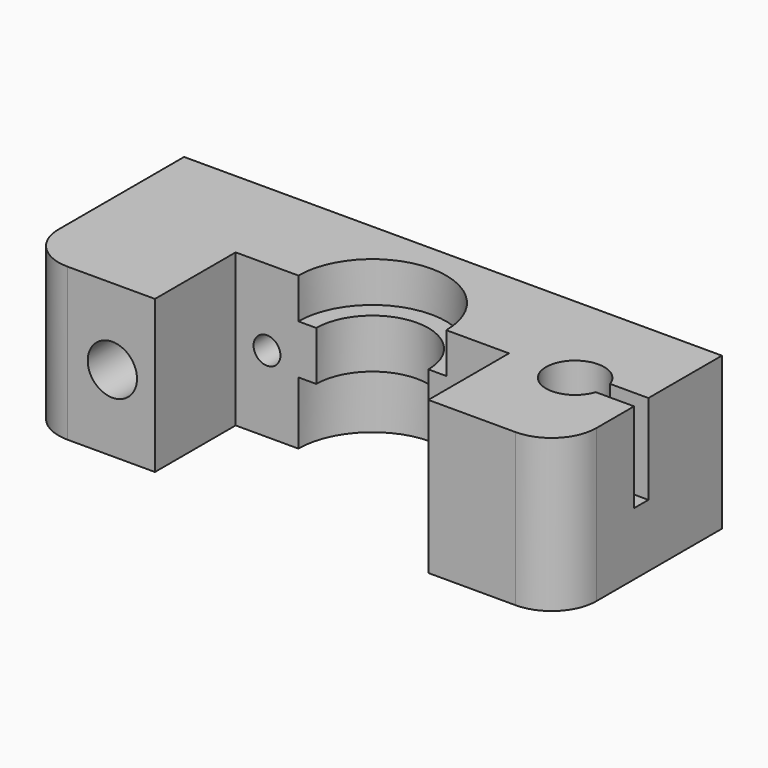
from build123d import *

# Parameters (mm, degrees)
F1_DEPTH  = 8.5
F2_R      = 2.75
F3_DEPTH  = 22.501
F4_R      = 1.75
F5_DEPTH  = 17.001
F6_R      = 5
F7_DEPTH  = 4
F8_R      = 1.5
F9_DEPTH  = 11.251
F10_R     = 5
F12_DEPTH = 10
F15_DEPTH = 2.75


with BuildPart() as f1:
    # F0 (on Top) → F1 (new body, symmetric)
    with BuildSketch(Plane.XY):
        with BuildLine():
            ThreePointArc((-8.25, 0), (0, 8.25), (8.25, 0))
            Line((8.25, 0), (15.25, 0))
            Line((15.25, 0), (15.25, -11.25))
            Line((15.25, -11.25), (30, -11.25))
            Line((30, -11.25), (30, 11.25))
            Line((30, 11.25), (0, 11.25))
            Line((0, 11.25), (-30, 11.25))
            Line((-30, 11.25), (-30, 0))
            Line((-30, 0), (-30, -11.25))
            Line((-30, -11.25), (-15.25, -11.25))
            Line((-15.25, -11.25), (-15.25, 0))
            Line((-15.25, 0), (-8.25, 0))
        make_face()
    extrude(amount=F1_DEPTH, both=True)

    # F2 (on face) → F3 (cut, through all)
    with BuildSketch(Plane.XZ.offset(11.25)):
        with Locations((-20, 0)):
            Circle(F2_R)
    extrude(amount=-F3_DEPTH, mode=Mode.SUBTRACT)

    # F4 (on face) → F5 (cut, through all)
    with BuildSketch(Plane.XY.offset(8.5)):
        with Locations((22.625, 0)):
            Circle(F4_R)
    extrude(amount=-F5_DEPTH, mode=Mode.SUBTRACT)

    # F6 (on face) → F7 (cut)
    with BuildSketch(Plane(origin=(0, 0, -8.5), x_dir=(1, 0, 0), z_dir=(0, 0, -1))):
        with Locations((22.625, 0)):
            Circle(F6_R)
    extrude(amount=-F7_DEPTH, mode=Mode.SUBTRACT)

    # F8 (on face) → F9 (cut, through all)
    with BuildSketch(Plane.XZ):
        with Locations((-11.75, 0)):
            Circle(F8_R)
        with Locations((11.75, 0)):
            Circle(F8_R)
    extrude(amount=-F9_DEPTH, mode=Mode.SUBTRACT)

    # F10
    f10_edges = [f1.edges().sort_by_distance(p)[0] for p in [
        (-30, -11.25, 0),
        (30, -11.25, 0),
    ]]
    fillet(f10_edges, radius=F10_R)

    # F11 (on face) → F12 (cut)
    with BuildSketch(Plane.XY.offset(8.5)):
        with BuildLine():
            Line((30, 1), (25.7173292192, 1))
            ThreePointArc((25.7173292192, 1), (19.375, 0), (25.7173292192, -1))
            Line((25.7173292192, -1), (30, -1))
            Line((30, -1), (30, 0))
            Line((30, 0), (30, 1))
        make_face()
    extrude(amount=-F12_DEPTH, mode=Mode.SUBTRACT)

    # F14 (on offset) → F15 (join, symmetric)
    with BuildSketch(Plane.XY.offset(1.25)):
        with BuildLine():
            Line((6.25, 0), (9, 0))
            ThreePointArc((9, 0), (0, 9), (-9, 0))
            Line((-9, 0), (-6.25, 0))
            ThreePointArc((-6.25, 0), (0, 6.25), (6.25, 0))
        make_face()
    extrude(amount=F15_DEPTH, both=True)


solid = f1.part
